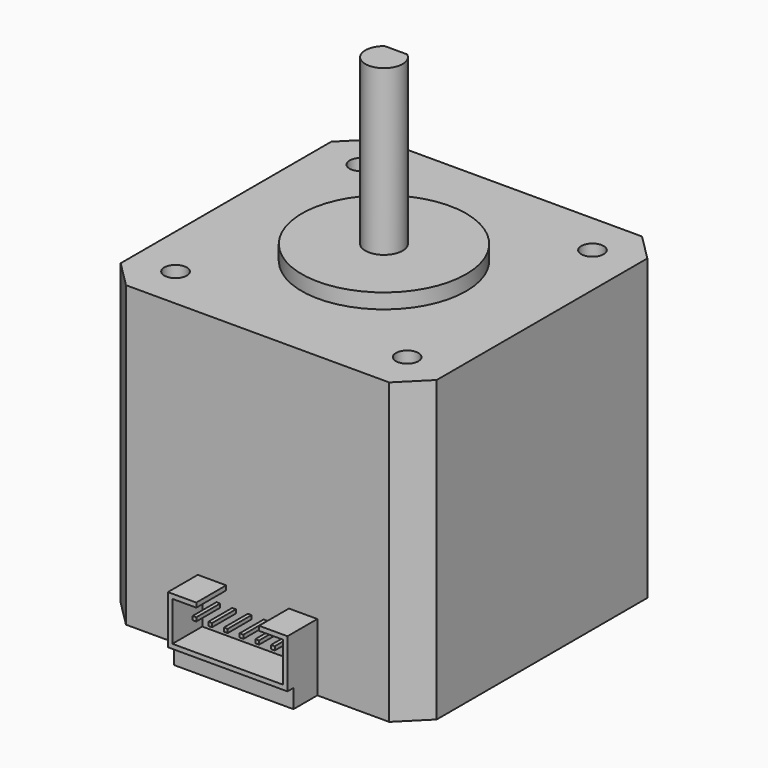
from build123d import *

# Parameters (mm, degrees)
PAD_DEPTH      = 40
SKETCH001_R    = 1.5
HOLE_DEPTH     = 4.5
HOLE_TIPS_R    = 1.5
SKETCH002_R    = 1.5
HOLE001_DEPTH  = 4.5
HOLE001_TIPS_R = 1.5
SKETCH003_R    = 11
PAD001_DEPTH   = 2
PAD002_DEPTH   = 22
SKETCH005_R    = 2.5
PAD003_DEPTH   = 3
SKETCH006_W    = 16
SKETCH006_H    = 4
PAD004_DEPTH   = 2.5
PAD005_DEPTH   = 5
SKETCH008_W    = 0.5
SKETCH008_H    = 0.5
PAD006_DEPTH   = 4


with BuildPart() as part:
    # Sketch → Pad (new body)
    with BuildSketch(Plane.XY):
        Polygon((-17.614466, 21.15), (17.614466, 21.15), (21.15, 17.614466), (21.15, -17.614466), (17.614466, -21.15), (-17.614466, -21.15), (-21.15, -17.614466), (-21.15, 17.614466), align=None)
    extrude(amount=PAD_DEPTH)

    # Sketch001 (on Face10 of Pad) → Hole (cut)
    with BuildSketch(Plane.XY.offset(40)):
        with Locations((15.5, 15.5)):
            Circle(SKETCH001_R)
        with Locations((-15.5, 15.5)):
            Circle(SKETCH001_R)
        with Locations((-15.5, -15.5)):
            Circle(SKETCH001_R)
        with Locations((15.5, -15.5)):
            Circle(SKETCH001_R)
    extrude(amount=-HOLE_DEPTH, mode=Mode.SUBTRACT)

    # Hole tips → Hole tip 1 section 0
    with BuildSketch(Plane.XY.offset(35.5), mode=Mode.PRIVATE) as hole_tip_1_s0:
        with Locations((15.5, 15.5)):
            Circle(HOLE_TIPS_R)
    loft([hole_tip_1_s0.sketch, Vertex(15.5, 15.5, 34.598709)], mode=Mode.SUBTRACT)

    # Hole tips → Hole tip 2 section 0
    with BuildSketch(Plane.XY.offset(35.5), mode=Mode.PRIVATE) as hole_tip_2_s0:
        with Locations((-15.5, 15.5)):
            Circle(HOLE_TIPS_R)
    loft([hole_tip_2_s0.sketch, Vertex(-15.5, 15.5, 34.598709)], mode=Mode.SUBTRACT)

    # Hole tips → Hole tip 3 section 0
    with BuildSketch(Plane.XY.offset(35.5), mode=Mode.PRIVATE) as hole_tip_3_s0:
        with Locations((-15.5, -15.5)):
            Circle(HOLE_TIPS_R)
    loft([hole_tip_3_s0.sketch, Vertex(-15.5, -15.5, 34.598709)], mode=Mode.SUBTRACT)

    # Hole tips → Hole tip 4 section 0
    with BuildSketch(Plane.XY.offset(35.5), mode=Mode.PRIVATE) as hole_tip_4_s0:
        with Locations((15.5, -15.5)):
            Circle(HOLE_TIPS_R)
    loft([hole_tip_4_s0.sketch, Vertex(15.5, -15.5, 34.598709)], mode=Mode.SUBTRACT)

    # Sketch002 → Hole001 (cut)
    with BuildSketch(Plane.XY):
        with Locations((-15.5, 15.5)):
            Circle(SKETCH002_R)
        with Locations((-15.5, -15.5)):
            Circle(SKETCH002_R)
        with Locations((15.5, -15.5)):
            Circle(SKETCH002_R)
        with Locations((15.5, 15.5)):
            Circle(SKETCH002_R)
    extrude(amount=HOLE001_DEPTH, mode=Mode.SUBTRACT)

    # Hole001 tips → Hole001 tip 1 section 0
    with BuildSketch(Plane.XY.offset(4.5), mode=Mode.PRIVATE) as hole001_tip_1_s0:
        with Locations((-15.5, 15.5)):
            Circle(HOLE001_TIPS_R)
    loft([hole001_tip_1_s0.sketch, Vertex(-15.5, 15.5, 5.401291)], mode=Mode.SUBTRACT)

    # Hole001 tips → Hole001 tip 2 section 0
    with BuildSketch(Plane.XY.offset(4.5), mode=Mode.PRIVATE) as hole001_tip_2_s0:
        with Locations((-15.5, -15.5)):
            Circle(HOLE001_TIPS_R)
    loft([hole001_tip_2_s0.sketch, Vertex(-15.5, -15.5, 5.401291)], mode=Mode.SUBTRACT)

    # Hole001 tips → Hole001 tip 3 section 0
    with BuildSketch(Plane.XY.offset(4.5), mode=Mode.PRIVATE) as hole001_tip_3_s0:
        with Locations((15.5, -15.5)):
            Circle(HOLE001_TIPS_R)
    loft([hole001_tip_3_s0.sketch, Vertex(15.5, -15.5, 5.401291)], mode=Mode.SUBTRACT)

    # Hole001 tips → Hole001 tip 4 section 0
    with BuildSketch(Plane.XY.offset(4.5), mode=Mode.PRIVATE) as hole001_tip_4_s0:
        with Locations((15.5, 15.5)):
            Circle(HOLE001_TIPS_R)
    loft([hole001_tip_4_s0.sketch, Vertex(15.5, 15.5, 5.401291)], mode=Mode.SUBTRACT)

    # Sketch003 (on Face5 of Hole001) → Pad001 (join)
    with BuildSketch(Plane.XY.offset(40)):
        Circle(SKETCH003_R)
    extrude(amount=PAD001_DEPTH)

    # Sketch004 (on Face27 of Pad001) → Pad002 (join)
    with BuildSketch(Plane.XY.offset(42)):
        with BuildLine():
            ThreePointArc((-1.5, 2), (0, -2.5), (1.5, 2))
            Line((-1.5, 2), (1.5, 2))
        make_face()
    extrude(amount=PAD002_DEPTH)

    # Sketch005 (on Face27 of Pad001) → Pad003 (join)
    with BuildSketch(Plane.XY.offset(42)):
        Circle(SKETCH005_R)
    extrude(amount=PAD003_DEPTH)

    # Sketch006 (on Face4 of Pad003) → Pad004 (join)
    with BuildSketch(Plane(origin=(0, 0, 0), x_dir=(1, 0, 0), z_dir=(0, 0, -1))):
        with Locations((0, 23.15)):
            Rectangle(SKETCH006_W, SKETCH006_H)
    extrude(amount=-PAD004_DEPTH)

    # Sketch007 (on Face10 of Pad004) → Pad005 (join)
    with BuildSketch(Plane.XZ.offset(21.15)):
        Polygon((-4.2, 9), (-8, 9), (-8, 2.5), (8, 2.5), (8, 9), (4.2, 9), (4.2, 8.4), (7.4, 8.4), (7.4, 3.1), (-7.4, 3.1), (-7.4, 8.4), (-4.2, 8.4), align=None)
    extrude(amount=PAD005_DEPTH)

    # Sketch008 (on Face10 of Pad005) → Pad006 (join)
    with BuildSketch(Plane.XZ.offset(21.15)):
        with Locations((-5.25, 6.35)):
            Rectangle(SKETCH008_W, SKETCH008_H)
        with Locations((-3.15, 6.35)):
            Rectangle(SKETCH008_W, SKETCH008_H)
        with Locations((-1.05, 6.35)):
            Rectangle(SKETCH008_W, SKETCH008_H)
        with Locations((1.05, 6.35)):
            Rectangle(SKETCH008_W, SKETCH008_H)
        with Locations((3.15, 6.35)):
            Rectangle(SKETCH008_W, SKETCH008_H)
        with Locations((5.25, 6.35)):
            Rectangle(SKETCH008_W, SKETCH008_H)
    extrude(amount=PAD006_DEPTH)


solid = part.part
